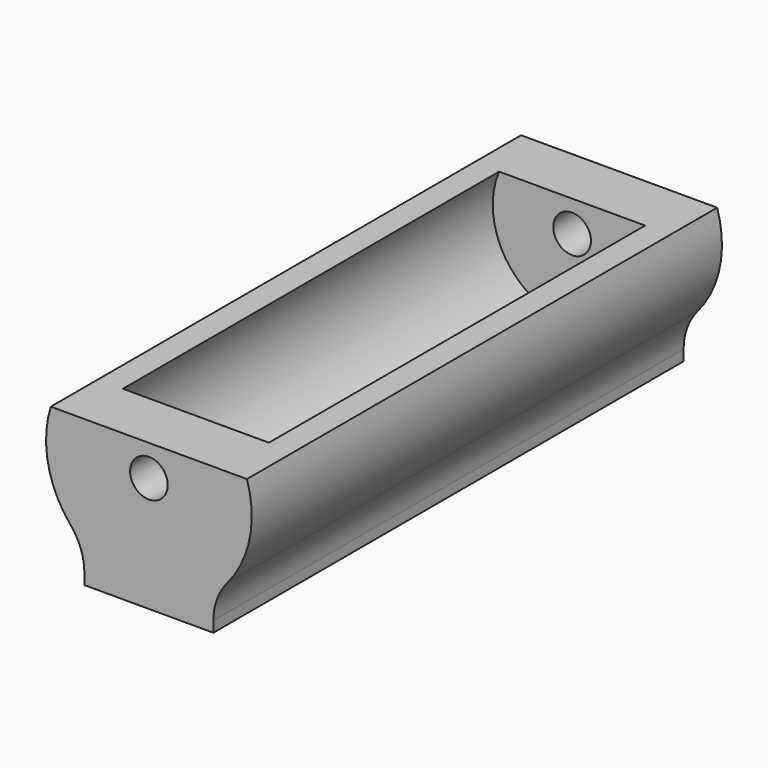
from build123d import *

# Parameters (mm, degrees)
F0_R           = 8.75
F1_DEPTH       = 25
F1_DEPTH_BACK  = 25
F2_R           = 6.75
F3_DEPTH       = 20
F3_DEPTH_BACK  = 20
F4_W           = 18.8391190022
F4_H           = 6.4964373596
F5_DEPTH       = 25.001
F5_DEPTH_BACK  = 25
F6_W           = 10.9675412329
F6_H           = 2.9768612129
F7_DEPTH       = 50
F8_R           = 5
F9_R           = 1.6
F10_DEPTH      = 25.001
F10_DEPTH_BACK = 25.001


with BuildPart() as f1:
    # F0 (on Front) → F1 (new body, two sides)
    with BuildSketch(Plane.XZ) as f1_sk:
        Circle(F0_R)
    extrude(amount=F1_DEPTH)
    extrude(f1_sk.sketch, amount=-F1_DEPTH_BACK)

    # F2 (on Front) → F3 (cut, two sides)
    with BuildSketch(Plane.XZ) as f3_sk:
        Circle(F2_R)
    extrude(amount=-F3_DEPTH, mode=Mode.SUBTRACT)
    extrude(f3_sk.sketch, amount=F3_DEPTH_BACK, mode=Mode.SUBTRACT)

    # F4 (on Front) → F5 (cut, two sides)
    with BuildSketch(Plane.XZ) as f5_sk:
        with Locations((0.2108290792, 5.8920474257)):
            Rectangle(F4_W, F4_H)
    extrude(amount=-F5_DEPTH, mode=Mode.SUBTRACT)
    extrude(f5_sk.sketch, amount=F5_DEPTH_BACK, mode=Mode.SUBTRACT)

    # F6 (on face) → F7 (join, through all)
    with BuildSketch(Plane.XZ.offset(25)):
        with Locations((0, -8.3068438988)):
            Rectangle(F6_W, F6_H)
    extrude(amount=-F7_DEPTH)

    # F8
    f8_edges = [f1.edges().sort_by_distance(p)[0] for p in [
        (5.483771, 0, -6.818413),
        (-5.483771, 0, -6.818413),
    ]]
    fillet(f8_edges, radius=F8_R)

    # F9 (on Front) → F10 (cut, two sides)
    with BuildSketch(Plane.XZ) as f10_sk:
        Circle(F9_R)
    extrude(amount=-F10_DEPTH, mode=Mode.SUBTRACT)
    extrude(f10_sk.sketch, amount=F10_DEPTH_BACK, mode=Mode.SUBTRACT)


solid = f1.part
